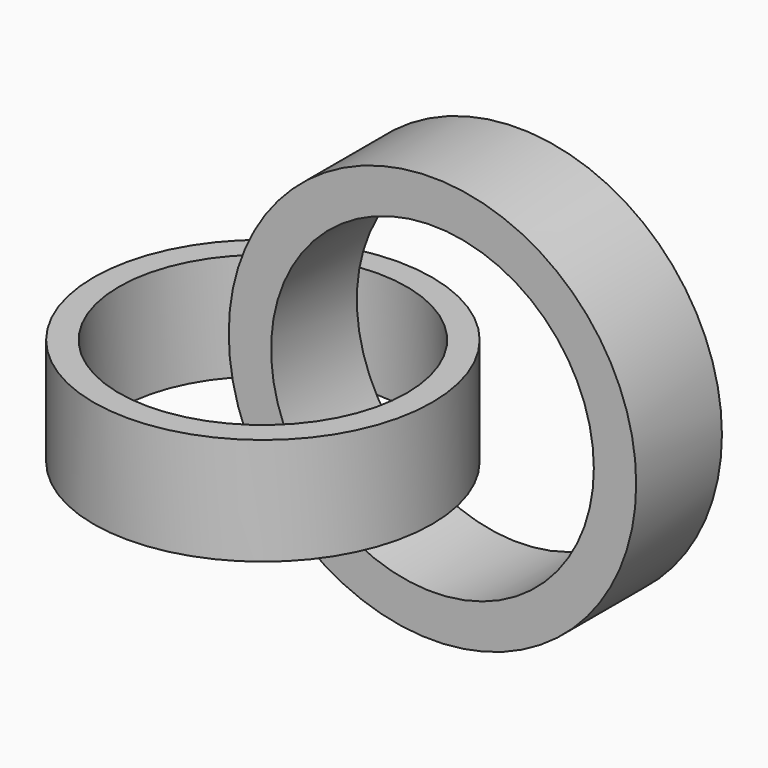
from build123d import *

# Parameters (mm, degrees)
F0_R     = 40.125966
F1_DEPTH = 25.4
F2_R     = 34.116542
F3_DEPTH = 25.401
F4_R     = 48.287161
F4_R_2   = 38.24881
F5_DEPTH = 25.4


with BuildPart() as f1:
    # F0 (on Top) → F1 (new body)
    with BuildSketch(Plane.XY):
        with Locations((-59.104733, 59.609976)):
            Circle(F0_R)
    extrude(amount=F1_DEPTH)

    # F2 (on face) → F3 (cut, through all)
    with BuildSketch(Plane.XY.offset(25.4)):
        with Locations((-59.104733, 59.609976)):
            Circle(F2_R)
    extrude(amount=-F3_DEPTH, mode=Mode.SUBTRACT)


with BuildPart() as f5:
    # F4 (on Front) → F5 (new body)
    with BuildSketch(Plane.XZ):
        with Locations((-16.94059, 25.746528)):
            Circle(F4_R)
        with Locations((-16.94059, 25.746528)):
            Circle(F4_R_2, mode=Mode.SUBTRACT)
    extrude(amount=F5_DEPTH)


with BuildPart() as f5_1:
    # F6: moved
    add(f5.part.moved(Location((0, 82.55, 0))))


solid = Compound([f1.part, f5_1.part])
